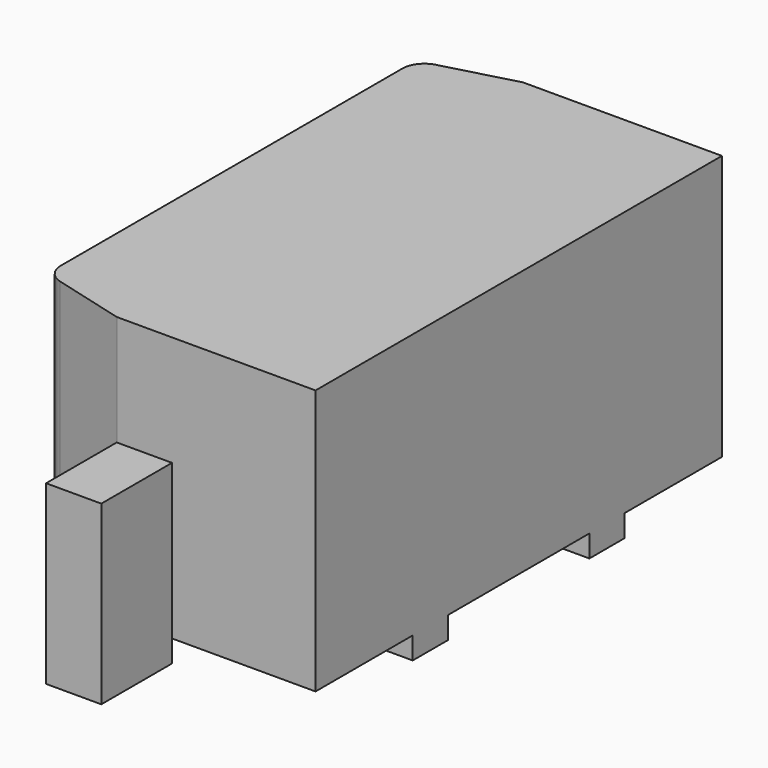
from build123d import *

# Parameters (mm, degrees)
F1_DEPTH      = 1.2
F2_W          = 0.25
F2_H          = 0.4
F3_DEPTH      = 0.7
F3_DEPTH_BACK = 0.1
F4_W          = 1.8
F4_H          = 0.8
F5_DEPTH      = 0.1
F6_W          = 1.8
F6_H          = 0.8
F7_DEPTH      = 0.08
F8_R          = 0.1
F9_W          = 1.3
F9_H          = 0.2
F10_DEPTH     = 0.1


with BuildPart() as f1:
    # F0 (on Top) → F1 (new body)
    with BuildSketch(Plane.XY):
        Polygon((0.65, 1.15), (-0.25, 1.15), (-0.65, 1.042820323), (-0.65, -1.042820323), (-0.25, -1.15), (0.65, -1.15), align=None)
    extrude(amount=F1_DEPTH)

    # F4 (on face) → F5 (cut)
    with BuildSketch(Plane(origin=(-0.65, 0, 0), x_dir=(0, -1, 0), z_dir=(-1, 0, 0))):
        with Locations((0, 0.6)):
            Rectangle(F4_W, F4_H)
    extrude(amount=-F5_DEPTH, mode=Mode.SUBTRACT)

    # F8
    f8_edges = [f1.edges().sort_by_distance(p)[0] for p in [
        (-0.65, -1.04282, 0.6),
        (-0.65, 1.04282, 0.6),
    ]]
    fillet(f8_edges, radius=F8_R)

    # F9 (on face) → F10 (join)
    with BuildSketch(Plane(origin=(0, 0, 0), x_dir=(1, 0, 0), z_dir=(0, 0, -1))):
        with Locations((0, 0.5)):
            Rectangle(F9_W, F9_H)
        with Locations((0, -0.5)):
            Rectangle(F9_W, F9_H)
    extrude(amount=F10_DEPTH)


with BuildPart() as f3:
    # F2 (on face) → F3 (new body, two sides)
    with BuildSketch(Plane(origin=(0, 0, 0), x_dir=(1, 0, 0), z_dir=(0, 0, -1))) as f3_sk:
        with Locations((-0.125, -1.35)):
            Rectangle(F2_W, F2_H)
    extrude(amount=-F3_DEPTH)
    extrude(f3_sk.sketch, amount=F3_DEPTH_BACK)


with BuildPart() as f3b:
    # F2 (on face) → F3, piece 2 (new body, two sides)
    with BuildSketch(Plane(origin=(0, 0, 0), x_dir=(1, 0, 0), z_dir=(0, 0, -1))) as f3_2_sk:
        with Locations((-0.125, 1.35)):
            Rectangle(F2_W, F2_H)
    extrude(amount=-F3_DEPTH)
    extrude(f3_2_sk.sketch, amount=F3_DEPTH_BACK)


with BuildPart() as f7:
    # F6 (on face) → F7 (new body)
    with BuildSketch(Plane(origin=(-0.55, 0, 0), x_dir=(0, -1, 0), z_dir=(-1, 0, 0))):
        with Locations((0, 0.6)):
            Rectangle(F6_W, F6_H)
    extrude(amount=F7_DEPTH)


solid = Compound([f1.part, f3.part, f3b.part, f7.part])
